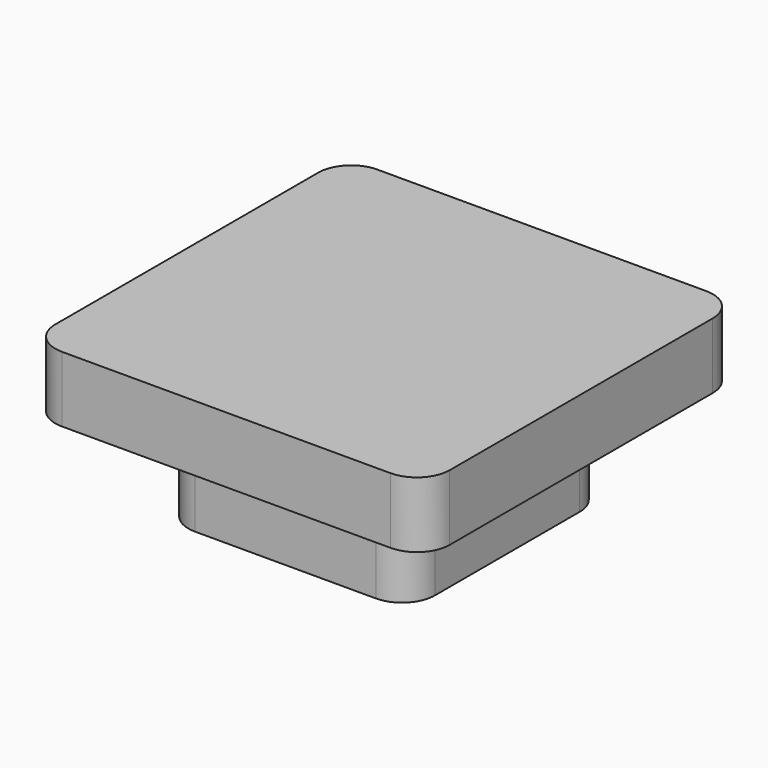
from build123d import *

# Parameters (mm, degrees)
F0_W     = 4.5
F0_H     = 4.5
F1_DEPTH = 3
F3_DEPTH = 2
F4_SIZE  = 1


with BuildPart() as f1:
    # F0 (on Top) → F1 (new body)
    with BuildSketch(Plane.XY):
        with BuildLine():
            Line((-2.75, -3.75), (2.75, -3.75))
            ThreePointArc((2.75, -3.75), (3.457107, -3.457107), (3.75, -2.75))
            Line((3.75, -2.75), (3.75, 2.75))
            ThreePointArc((3.75, 2.75), (3.457107, 3.457107), (2.75, 3.75))
            Line((2.75, 3.75), (-2.75, 3.75))
            ThreePointArc((-2.75, 3.75), (-3.457107, 3.457107), (-3.75, 2.75))
            Line((-3.75, 2.75), (-3.75, -2.75))
            ThreePointArc((-3.75, -2.75), (-3.457107, -3.457107), (-2.75, -3.75))
        make_face()
        Rectangle(F0_W, F0_H, mode=Mode.SUBTRACT)
    extrude(amount=F1_DEPTH)

    # F2 (on face) → F3 (join)
    with BuildSketch(Plane.XY.offset(3)):
        with BuildLine():
            ThreePointArc((6, 5), (5.707107, 5.707107), (5, 6))
            Line((5, 6), (-5, 6))
            ThreePointArc((-5, 6), (-5.707107, 5.707107), (-6, 5))
            Line((-6, 5), (-6, -5))
            ThreePointArc((-6, -5), (-5.707107, -5.707107), (-5, -6))
            Line((-5, -6), (5, -6))
            ThreePointArc((5, -6), (5.707107, -5.707107), (6, -5))
            Line((6, -5), (6, 5))
        make_face()
    extrude(amount=F3_DEPTH)

    # F4
    f4_edges = [f1.edges().sort_by_distance(p)[0] for p in [
        (0, -3.75, 3),
    ]]
    chamfer(f4_edges, length=F4_SIZE)


solid = f1.part
